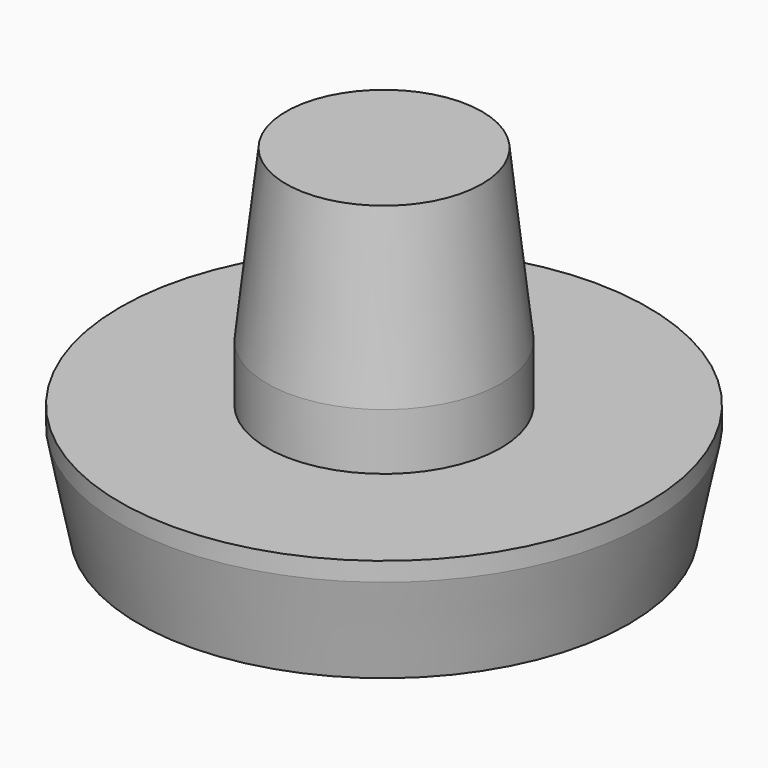
from build123d import *

# Parameters (mm, degrees)
F0_R     = 7
F1_DEPTH = 3
F2_R     = 3.1
F3_DEPTH = 6
F4_SIZE2 = 4.5
F4_SIZE  = 0.5
F5_SIZE2 = 0.5
F5_SIZE  = 2.5


with BuildPart() as f1:
    # F0 (on Top) → F1 (new body)
    with BuildSketch(Plane.XY):
        Circle(F0_R)
    extrude(amount=F1_DEPTH)

    # F2 (on face) → F3 (join)
    with BuildSketch(Plane.XY.offset(3)):
        Circle(F2_R)
    extrude(amount=F3_DEPTH)

    # F4
    f4_edges = [f1.edges().sort_by_distance(p)[0] for p in [
        (-3.1, 0, 9),
    ]]
    f4_side = f1.faces().sort_by_distance((0, 0, 9))[0]
    chamfer(f4_edges, length=F4_SIZE, length2=F4_SIZE2, reference=f4_side)

    # F5
    f5_edges = [f1.edges().sort_by_distance(p)[0] for p in [
        (-7, 0, 0),
    ]]
    f5_side = f1.faces().sort_by_distance((-7, 0, 1.5))[0]
    chamfer(f5_edges, length=F5_SIZE, length2=F5_SIZE2, reference=f5_side)


solid = f1.part
